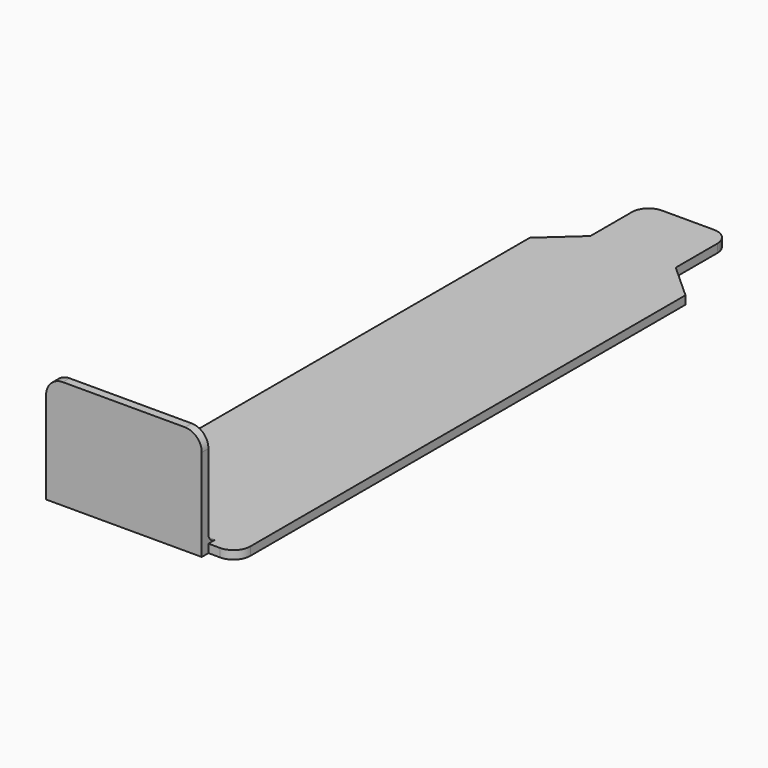
from build123d import *

# Parameters (mm, degrees)
F1_DEPTH = 1
F2_W     = 18.6
F2_H     = 1
F3_DEPTH = 13
F4_R     = 2
F5_R     = 1


with BuildPart() as f1:
    # F0 (on Top) → F1 (new body)
    with BuildSketch(Plane.XY):
        Polygon((0, 67), (0, 0), (18.6, 0), (18.6, 67), (14.4, 70.8), (14.4, 79), (4.2, 79), (4.2, 70.8), align=None)
    extrude(amount=F1_DEPTH)

    # F2 (on Top) → F3 (join)
    with BuildSketch(Plane.XY):
        with Locations((5.9, -0.5)):
            Rectangle(F2_W, F2_H)
    extrude(amount=F3_DEPTH)

    # F4
    f4_edges = [f1.edges().sort_by_distance(p)[0] for p in [
        (18.6, 0, 0.5),
        (15.2, -0.5, 13),
        (-3.4, -0.5, 13),
        (14.4, 79, 0.5),
        (4.2, 79, 0.5),
    ]]
    fillet(f4_edges, radius=F4_R)

    # F5
    f5_edges = [f1.edges().sort_by_distance(p)[0] for p in [
        (7.6, 0, 1),
    ]]
    fillet(f5_edges, radius=F5_R)


solid = f1.part
